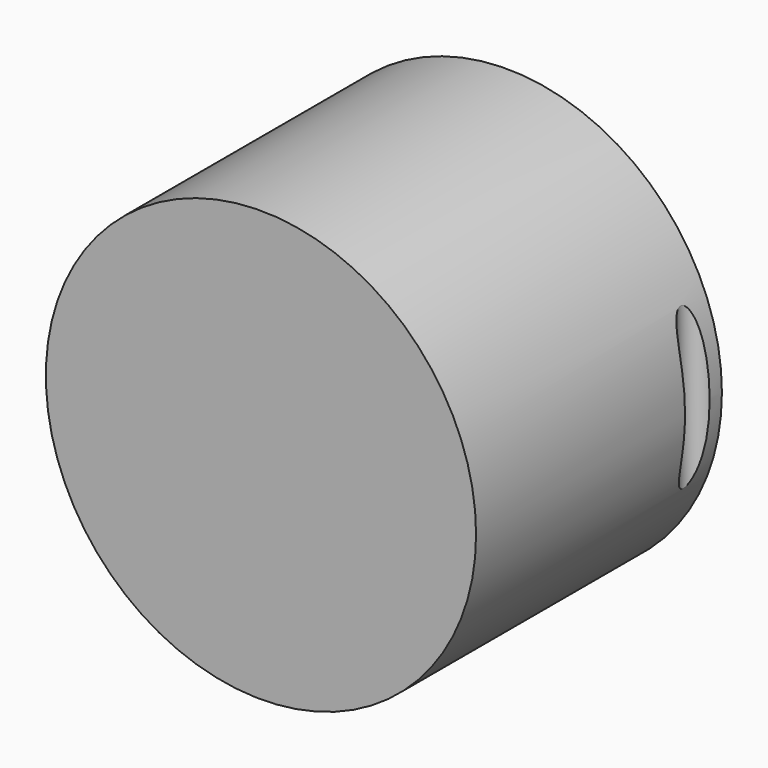
from build123d import *

# Parameters (mm, degrees)
F0_R     = 177.8
F1_DEPTH = 254
F4_R     = 12.7
F5_DEPTH = 177.8


with BuildPart() as f1:
    # F0 (on Front) → F1 (new body)
    with BuildSketch(Plane.XZ):
        Circle(F0_R)
    extrude(amount=F1_DEPTH)

    # F4 (on face) → F5 (cut, symmetric)
    with BuildSketch(Plane(origin=(0, 0, 0), x_dir=(0.999848, 0, 0.017452), z_dir=(-0.017452, 0, 0.999848))):
        with BuildLine():
            ThreePointArc((177.8, -12.7), (165.1, -25.4), (177.8, -38.1))
            Line((177.8, -38.1), (177.8, -12.7))
        make_face()
        with BuildLine():
            Line((177.8, -12.7), (177.8, -38.1))
            ThreePointArc((177.8, -38.1), (186.780256, -34.380256), (190.5, -25.4))
            ThreePointArc((190.5, -25.4), (186.780256, -16.419744), (177.8, -12.7))
        make_face()
        with Locations((-177.8, -25.4)):
            Circle(F4_R)
    extrude(amount=F5_DEPTH, both=True, mode=Mode.SUBTRACT)


solid = f1.part
